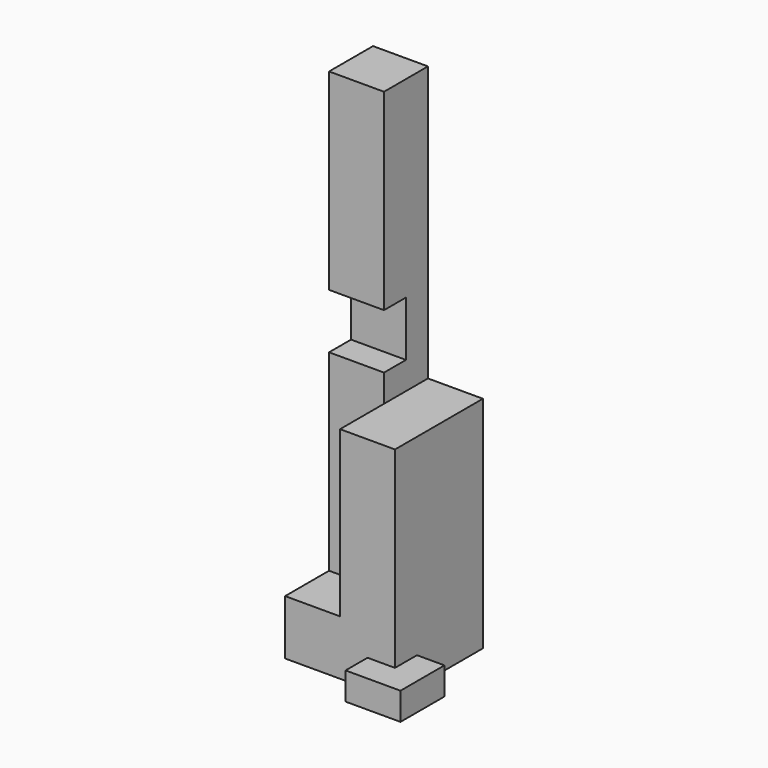
from build123d import *

# Parameters (mm, degrees)
F0_W     = 10.16
F0_H     = 10.16
F1_DEPTH = 5.08
F2_W     = 5.08
F2_H     = 5.08
F3_DEPTH = 2.54
F4_W     = 5.08
F4_H     = 5.08
F5_DEPTH = 40.64
F6_W     = 5.08
F6_H     = 5.08
F7_DEPTH = 25.4
F8_W     = 5.08
F8_H     = 10.16
F9_DEPTH = 15.24


with BuildPart() as f1:
    # F0 (on Top) → F1 (new body)
    with BuildSketch(Plane.XY):
        with Locations((5.08, -5.08)):
            Rectangle(F0_W, F0_H)
    extrude(amount=F1_DEPTH)

    # F2 (on face) → F3 (join)
    with BuildSketch(Plane(origin=(0, 0, 0), x_dir=(1, 0, 0), z_dir=(0, 0, -1))):
        with Locations((10.16, 10.16)):
            Rectangle(F2_W, F2_H)
    extrude(amount=-F3_DEPTH)

    # F4 (on face) → F5 (join)
    with BuildSketch(Plane.XY.offset(5.08)):
        with Locations((2.54, -2.54)):
            Rectangle(F4_W, F4_H)
    extrude(amount=F5_DEPTH)

    # F6 (on face) → F7 (cut)
    with BuildSketch(Plane.YZ.offset(5.08)):
        with Locations((-5.08, 25.4)):
            Rectangle(F6_W, F6_H)
    extrude(amount=-F7_DEPTH, mode=Mode.SUBTRACT)

    # F8 (on face) → F9 (join)
    with BuildSketch(Plane.XY.offset(5.08)):
        with Locations((7.62, -5.08)):
            Rectangle(F8_W, F8_H)
    extrude(amount=F9_DEPTH)


solid = f1.part
